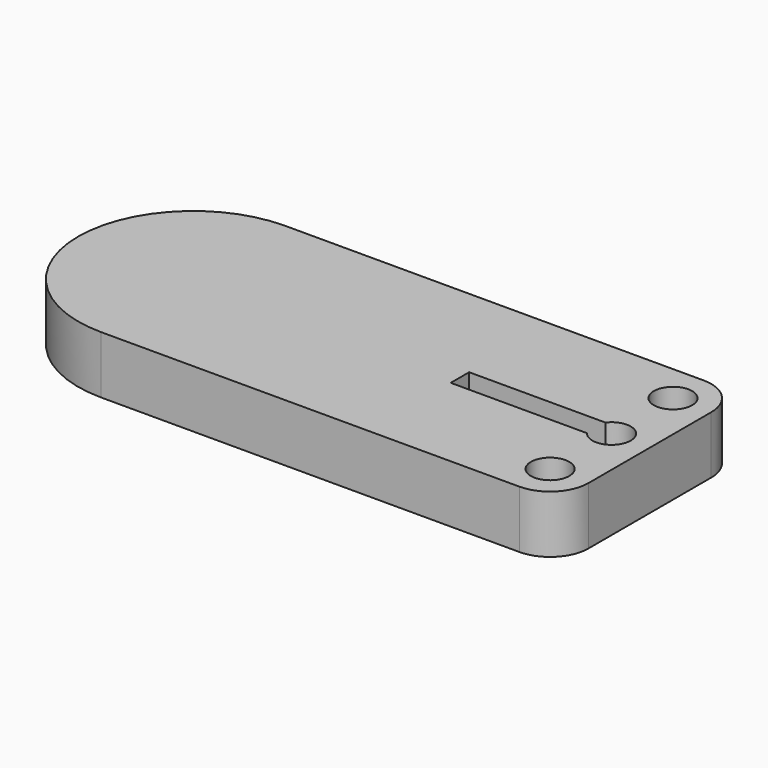
from build123d import *

# Parameters (mm, degrees)
F0_R     = 50
F1_DEPTH = 150


with BuildPart() as f1:
    # F0 (on Top) → F1 (new body)
    with BuildSketch(Plane.XY):
        with BuildLine():
            ThreePointArc((-595, 300), (-895, 0), (-595, -300))
            Line((-595, -300), (-595, 300))
        make_face()
        with BuildLine():
            Line((-595, -300), (495, -300))
            ThreePointArc((495, -300), (565.710678, -270.710678), (595, -200))
            Line((595, -200), (595, 200))
            ThreePointArc((595, 200), (565.710678, 270.710678), (495, 300))
            Line((495, 300), (-595, 300))
            Line((-595, 300), (-595, -300))
        make_face()
        with Locations((495, -200)):
            Circle(F0_R, mode=Mode.SUBTRACT)
        with BuildLine():
            ThreePointArc((455.236409, 30), (545.236409, 0), (455.236409, -30))
            Line((455.236409, -30), (100.036106, -30))
            Line((100.036106, -30), (100.036106, 30))
            Line((100.036106, 30), (455.236409, 30))
        make_face(mode=Mode.SUBTRACT)
        with Locations((495.472819, 200)):
            Circle(F0_R, mode=Mode.SUBTRACT)
    extrude(amount=F1_DEPTH)


solid = f1.part
